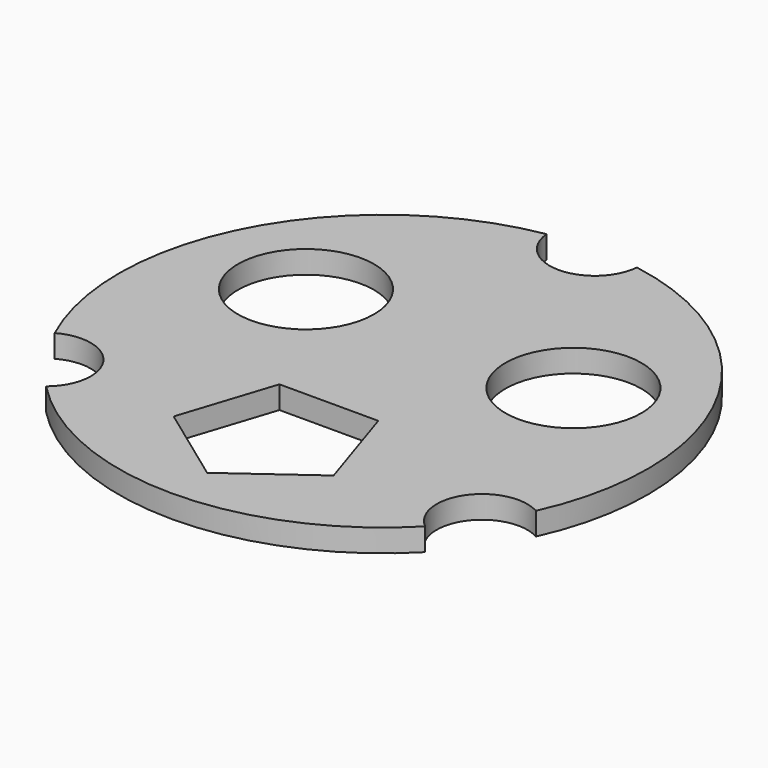
from build123d import *

# Parameters (mm, degrees)
F0_R     = 55.5625
F2_DEPTH = 4.7625
F1_R     = 9.525
F3_DEPTH = 4.7625
F5_R     = 14.2875
F6_DEPTH = 25.4


with BuildPart() as f2:
    # F0 (on Top) → F2 (new body)
    with BuildSketch(Plane.XY):
        Circle(F0_R)
    extrude(amount=F2_DEPTH)

    # F1 (on Top) → F3 (cut, through all)
    with BuildSketch(Plane.XY):
        with Locations((-45.8453687481, -31.3909791278)):
            Circle(F1_R)
        with Locations((0, 55.5625)):
            Circle(F1_R)
        with Locations((45.8453687481, -31.3909791278)):
            Circle(F1_R)
    extrude(amount=F3_DEPTH, mode=Mode.SUBTRACT)

    # F5 (on face) → F6 (cut)
    with BuildSketch(Plane(origin=(0, 0, 0), x_dir=(1, 0, 0), z_dir=(0, 0, -1))):
        with Locations((-28.0854459631, -14.8077758308)):
            Circle(F5_R)
        with Locations((28.0854459631, -14.8077758308)):
            Circle(F5_R)
        Polygon((16.7959635843, 34.0323393857), (0, 46.2353212285), (-16.7959635843, 34.0323393857), (-10.3804763689, 14.2875), (10.3804763689, 14.2875), align=None)
    extrude(amount=-F6_DEPTH, mode=Mode.SUBTRACT)


solid = f2.part
